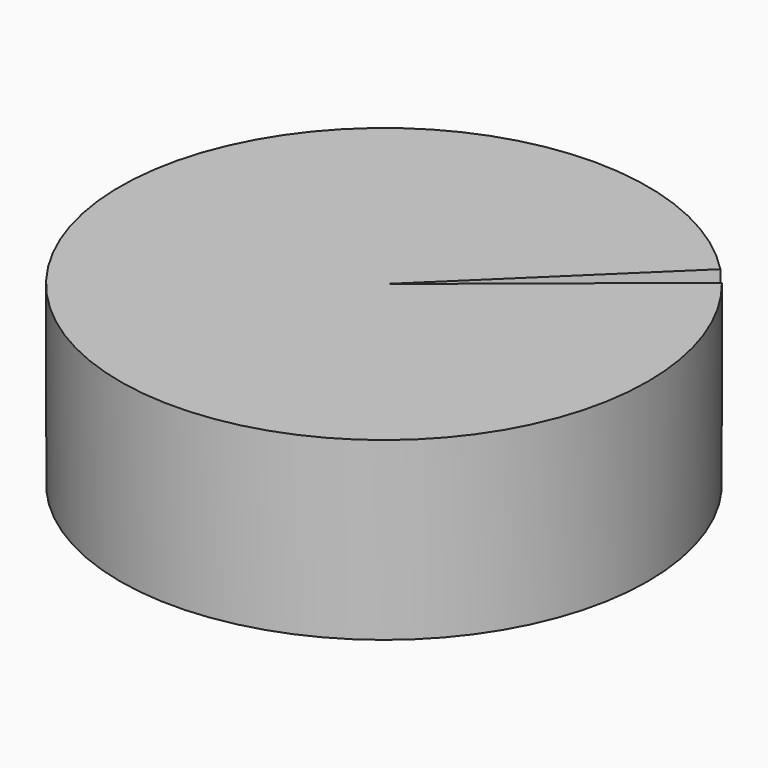
from build123d import *

# Parameters (mm, degrees)
F0_R     = 9.525
F1_DEPTH = 6.35
F3_DEPTH = 2.54


with BuildPart() as f1:
    # F0 (on Top) → F1 (new body)
    with BuildSketch(Plane.XY):
        Circle(F0_R)
    extrude(amount=F1_DEPTH)

    # F2 (on face) → F3 (cut)
    with BuildSketch(Plane.XY.offset(6.35)):
        with BuildLine():
            ThreePointArc((7.390296, 6.009089), (7.121149, 6.32573), (6.838447, 6.630329))
            Line((6.838447, 6.630329), (0, 0))
            Line((0, 0), (7.390296, 6.009089))
        make_face()
    extrude(amount=-F3_DEPTH, mode=Mode.SUBTRACT)


solid = f1.part
